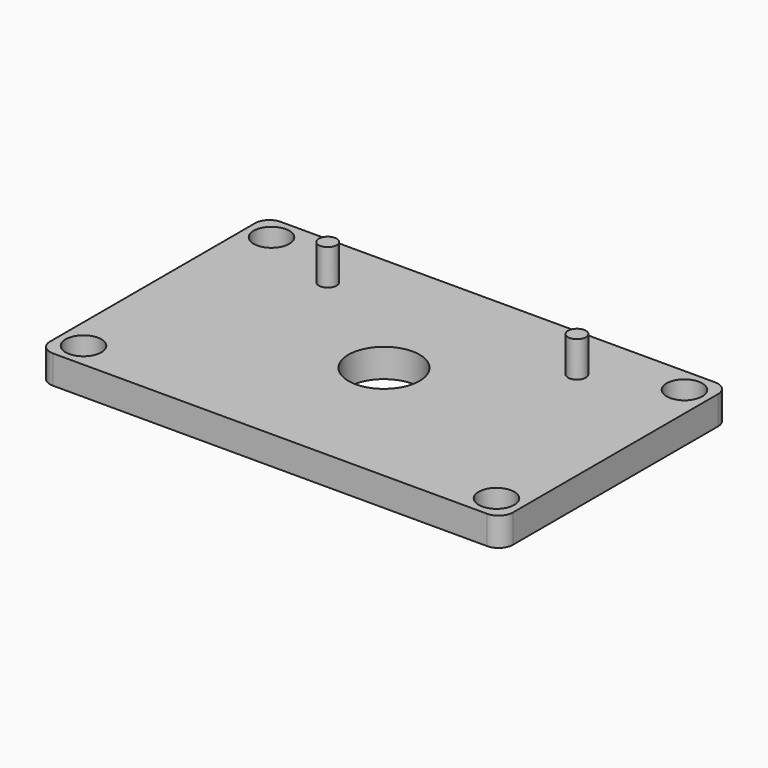
from build123d import *

# Parameters (mm, degrees)
F0_W     = 65
F0_H     = 40
F1_DEPTH = 4
F2_R     = 5
F3_DEPTH = 25
F4_R     = 1.25
F5_DEPTH = 5
F6_R     = 2
F7_R     = 2.5
F8_DEPTH = 25


with BuildPart() as f1:
    # F0 (on Top) → F1 (new body)
    with BuildSketch(Plane.XY):
        with Locations((32.639029, 20.218261)):
            Rectangle(F0_W, F0_H)
    extrude(amount=F1_DEPTH)

    # F2 (on face) → F3 (cut)
    with BuildSketch(Plane.XY.offset(4)):
        with Locations((32.639029, 20.218261)):
            Circle(F2_R)
    extrude(amount=-F3_DEPTH, mode=Mode.SUBTRACT)

    # F4 (on face) → F5 (join)
    with BuildSketch(Plane.XY.offset(4)):
        with BuildLine():
            ThreePointArc((51.389029, 32.218261), (50.139029, 33.468261), (48.889029, 32.218261))
            ThreePointArc((48.889029, 32.218261), (50.139029, 30.968261), (51.389029, 32.218261))
        make_face()
        with Locations((15.139029, 32.218261)):
            Circle(F4_R)
    extrude(amount=F5_DEPTH)

    # F6
    f6_edges = [f1.edges().sort_by_distance(p)[0] for p in [
        (0.139029, 0.218261, 2),
        (65.139029, 0.218261, 2),
        (65.139029, 40.218261, 2),
        (0.139029, 40.218261, 2),
    ]]
    fillet(f6_edges, radius=F6_R)

    # F7 (on face) → F8 (cut)
    with BuildSketch(Plane.XY.offset(4)):
        with Locations((3.639029, 36.718261)):
            Circle(F7_R)
        with Locations((3.639029, 3.718261)):
            Circle(F7_R)
        with BuildLine():
            ThreePointArc((64.139029, 3.718261), (61.639029, 6.218261), (59.139029, 3.718261))
            ThreePointArc((59.139029, 3.718261), (61.639029, 1.218261), (64.139029, 3.718261))
        make_face()
        with BuildLine():
            ThreePointArc((64.139029, 36.718261), (61.639029, 39.218261), (59.139029, 36.718261))
            ThreePointArc((59.139029, 36.718261), (61.639029, 34.218261), (64.139029, 36.718261))
        make_face()
    extrude(amount=-F8_DEPTH, mode=Mode.SUBTRACT)


solid = f1.part
